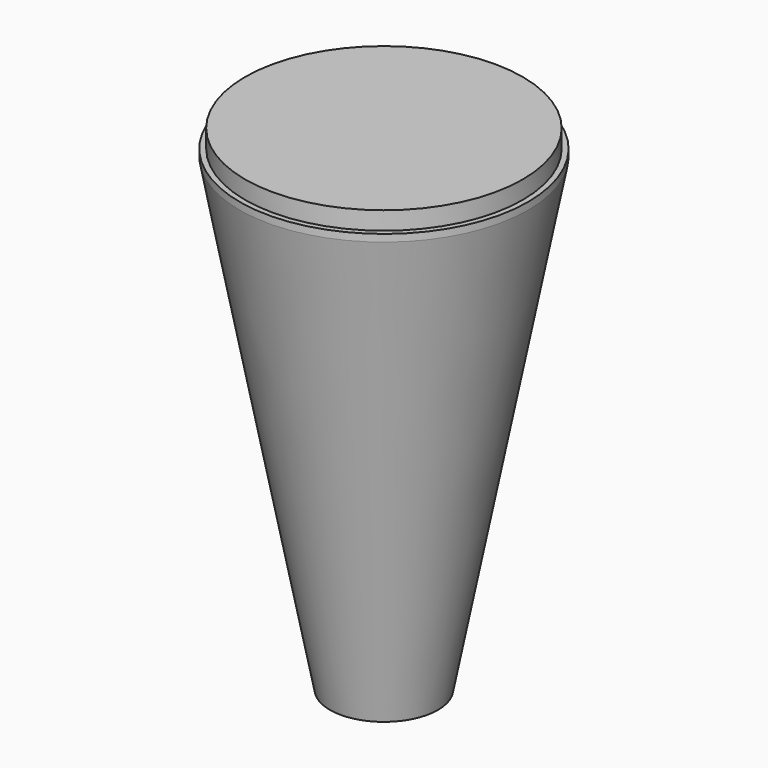
from build123d import *

# Parameters (mm, degrees)
F0_R     = 40
F1_DEPTH = 2
F2_R     = 38.5
F3_DEPTH = 5
F7_R     = 15
F4_R     = 40
F9_T     = -2


with BuildPart() as f1:
    # F0 (on Top) → F1 (new body)
    with BuildSketch(Plane.XY):
        Circle(F0_R)
    extrude(amount=F1_DEPTH)

    # F2 (on face) → F3 (join)
    with BuildSketch(Plane.XY.offset(2)):
        Circle(F2_R)
    extrude(amount=F3_DEPTH)

    # F7 (on plane+point) → F8 section 0
    with BuildSketch(Plane.XY.offset(-130.1585063338)):
        Circle(F7_R)
    # F4 (on face) → F8 section 1
    with BuildSketch(Plane(origin=(0, 0, 0), x_dir=(1, 0, 0), z_dir=(0, 0, -1))):
        Circle(F4_R)
    loft()

    # F9
    f9_openings = [f1.faces().sort_by_distance(p)[0] for p in [
        (0, 0, -130.158506),
    ]]
    offset(amount=F9_T, openings=f9_openings, kind=Kind.INTERSECTION)


solid = f1.part
